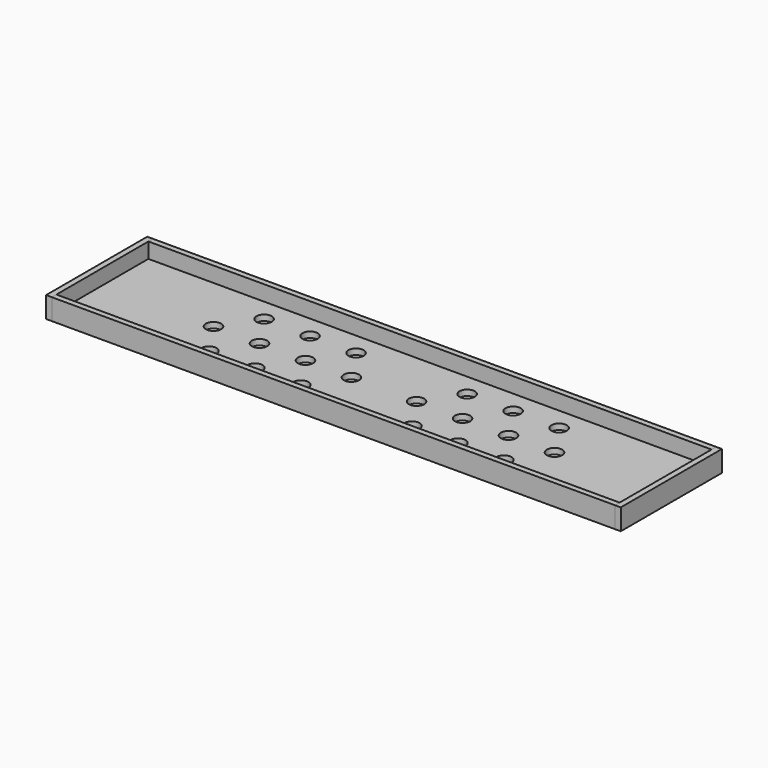
from build123d import *

# Parameters (mm, degrees)
F0_W     = 294
F0_H     = 60
F0_R     = 4
F1_DEPTH = 3
F2_W     = 294
F2_H     = 3
F3_DEPTH = 11
F5_DEPTH = 11


with BuildPart() as f1:
    # F0 (on Top) → F1 (new body)
    with BuildSketch(Plane.XY):
        Rectangle(F0_W, F0_H)
        with Locations((-77, -18)):
            Circle(F0_R, mode=Mode.SUBTRACT)
        with Locations((-53, -18)):
            Circle(F0_R, mode=Mode.SUBTRACT)
        with Locations((-29, -18)):
            Circle(F0_R, mode=Mode.SUBTRACT)
        with Locations((29, -18)):
            Circle(F0_R, mode=Mode.SUBTRACT)
        with Locations((53, -18)):
            Circle(F0_R, mode=Mode.SUBTRACT)
        with Locations((77, -18)):
            Circle(F0_R, mode=Mode.SUBTRACT)
        with Locations((-89, 0)):
            Circle(F0_R, mode=Mode.SUBTRACT)
        with Locations((-65, 0)):
            Circle(F0_R, mode=Mode.SUBTRACT)
        with Locations((-41, 0)):
            Circle(F0_R, mode=Mode.SUBTRACT)
        with Locations((-17, 0)):
            Circle(F0_R, mode=Mode.SUBTRACT)
        with Locations((-77, 18)):
            Circle(F0_R, mode=Mode.SUBTRACT)
        with Locations((-53, 18)):
            Circle(F0_R, mode=Mode.SUBTRACT)
        with Locations((-29, 18)):
            Circle(F0_R, mode=Mode.SUBTRACT)
        with Locations((17, 0)):
            Circle(F0_R, mode=Mode.SUBTRACT)
        with Locations((41, 0)):
            Circle(F0_R, mode=Mode.SUBTRACT)
        with Locations((65, 0)):
            Circle(F0_R, mode=Mode.SUBTRACT)
        with Locations((89, 0)):
            Circle(F0_R, mode=Mode.SUBTRACT)
        with Locations((29, 18)):
            Circle(F0_R, mode=Mode.SUBTRACT)
        with Locations((53, 18)):
            Circle(F0_R, mode=Mode.SUBTRACT)
        with Locations((77, 18)):
            Circle(F0_R, mode=Mode.SUBTRACT)
    extrude(amount=F1_DEPTH)


with BuildPart() as f3:
    # F2 (on face) → F3 (new body)
    with BuildSketch(Plane(origin=(0, 0, 0), x_dir=(1, 0, 0), z_dir=(0, 0, -1))):
        with Locations((0, 31.5)):
            Rectangle(F2_W, F2_H)
        with Locations((0, -31.5)):
            Rectangle(F2_W, F2_H)
        with Locations((0, 31.5)):
            Rectangle(F2_W, F2_H)
        with Locations((0, 31.5)):
            Rectangle(F2_W, F2_H)
    extrude(amount=-F3_DEPTH)


with BuildPart() as f5:
    # F4 (on face) → F5 (new body)
    with BuildSketch(Plane(origin=(0, 0, 0), x_dir=(1, 0, 0), z_dir=(0, 0, -1))):
        Polygon((-147, -30), (-147, 30), (-147, 33), (-150, 33), (-150, -33), (-147, -33), align=None)
        Polygon((147, 33), (147, 30), (147, -30), (147, -33), (150, -33), (150, 33), align=None)
    extrude(amount=-F5_DEPTH)


solid = Compound([f1.part, f3.part, f5.part])
